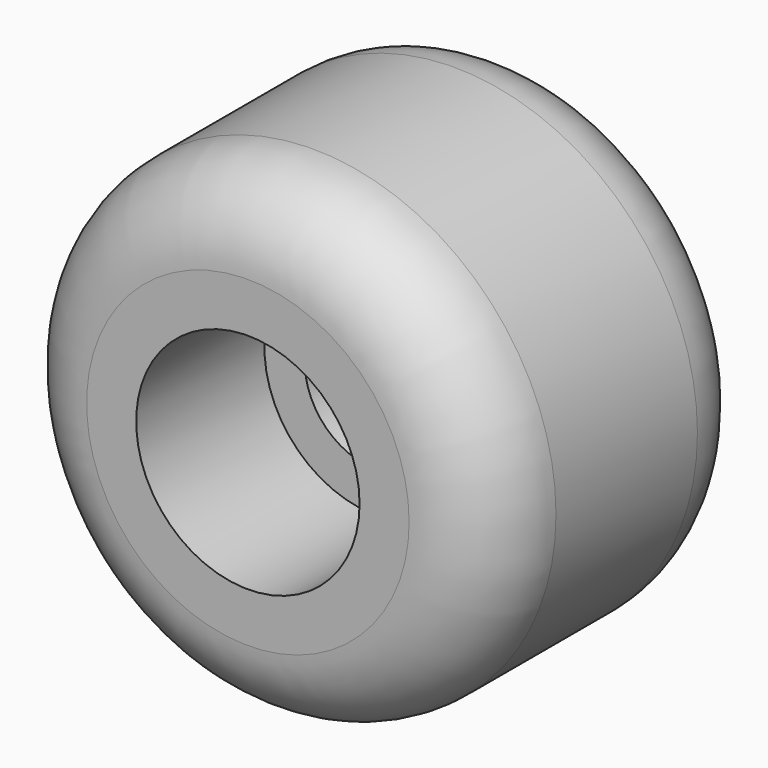
from build123d import *

# Parameters (mm, degrees)
F0_R          = 25
F0_R_2        = 11.5
F1_DEPTH      = 17.5
F1_DEPTH_BACK = 17.5
F0_R_3        = 7.35
F2_DEPTH      = 6
F3_DEPTH      = 6
F4_R          = 8.4
F2_FACE_R     = 11.5
F2_FACE_R_2   = 7.35
F6_DEPTH      = 5
F3_FACE_R     = 11.5
F3_FACE_R_2   = 7.35
F7_DEPTH      = 3


with BuildPart() as f1:
    # F0 (on Front) → F1 (new body, two sides)
    with BuildSketch(Plane.XZ) as f1_sk:
        Circle(F0_R)
        Circle(F0_R_2, mode=Mode.SUBTRACT)
    extrude(amount=F1_DEPTH)
    extrude(f1_sk.sketch, amount=-F1_DEPTH_BACK)

    # F0 (on Front) → F2 (join)
    with BuildSketch(Plane.XZ):
        Circle(F0_R_2)
        Circle(F0_R_3, mode=Mode.SUBTRACT)
    extrude(amount=F2_DEPTH)

    # F0 (on Front) → F3 (join)
    with BuildSketch(Plane.XZ):
        Circle(F0_R_2)
        Circle(F0_R_3, mode=Mode.SUBTRACT)
    extrude(amount=-F3_DEPTH)

    # F4
    f4_edges = [f1.edges().sort_by_distance(p)[0] for p in [
        (-25, -17.5, 0),
        (-25, 17.5, 0),
    ]]
    fillet(f4_edges, radius=F4_R)

    # F2_face (on face) → F6 (cut)
    with BuildSketch(Plane.XZ.offset(6)):
        Circle(F2_FACE_R)
        Circle(F2_FACE_R_2, mode=Mode.SUBTRACT)
    extrude(amount=-F6_DEPTH, mode=Mode.SUBTRACT)

    # F3_face (on face) → F7 (join)
    with BuildSketch(Plane(origin=(0, 6, 0), x_dir=(1, 0, 0), z_dir=(0, 1, 0))):
        Circle(F3_FACE_R)
        Circle(F3_FACE_R_2, mode=Mode.SUBTRACT)
    extrude(amount=F7_DEPTH)


solid = f1.part
